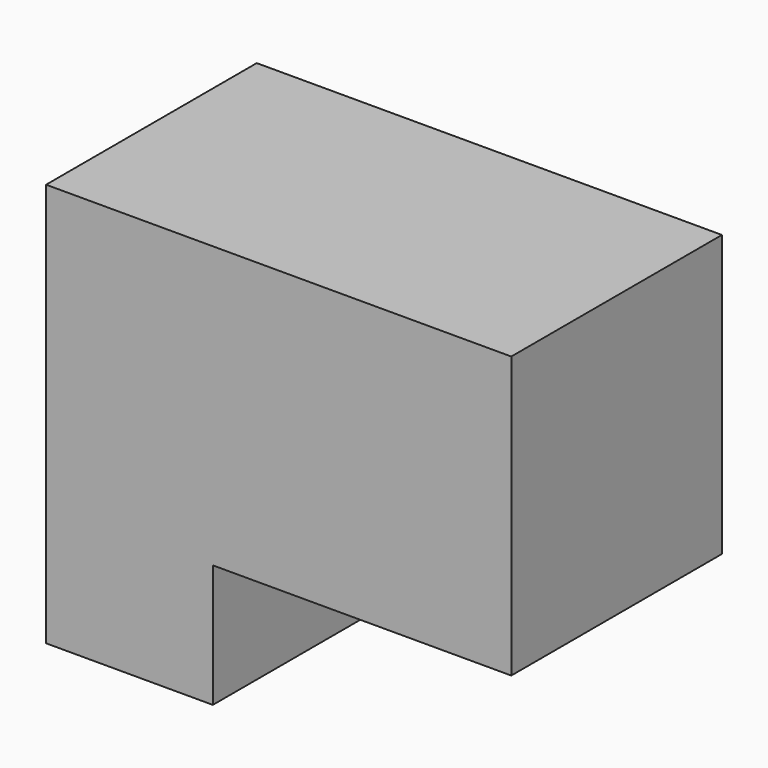
from build123d import *

# Parameters (mm, degrees)
F0_W     = 53.975
F0_H     = 50.8
F1_DEPTH = 47.625
F2_DEPTH = 47.625


with BuildPart() as f1:
    # F0 (on Front) → F1 (new body)
    with BuildSketch(Plane.XZ):
        with Locations((26.9875, 25.4)):
            Rectangle(F0_W, F0_H)
    extrude(amount=F1_DEPTH)

    # F0 (on Front) → F2 (join, through all)
    with BuildSketch(Plane.XZ):
        Polygon((0, 50.8), (-30.1625, 50.8), (-30.1625, -22.225), (0, -22.225), (0, 0), align=None)
    extrude(amount=F2_DEPTH)


solid = f1.part
